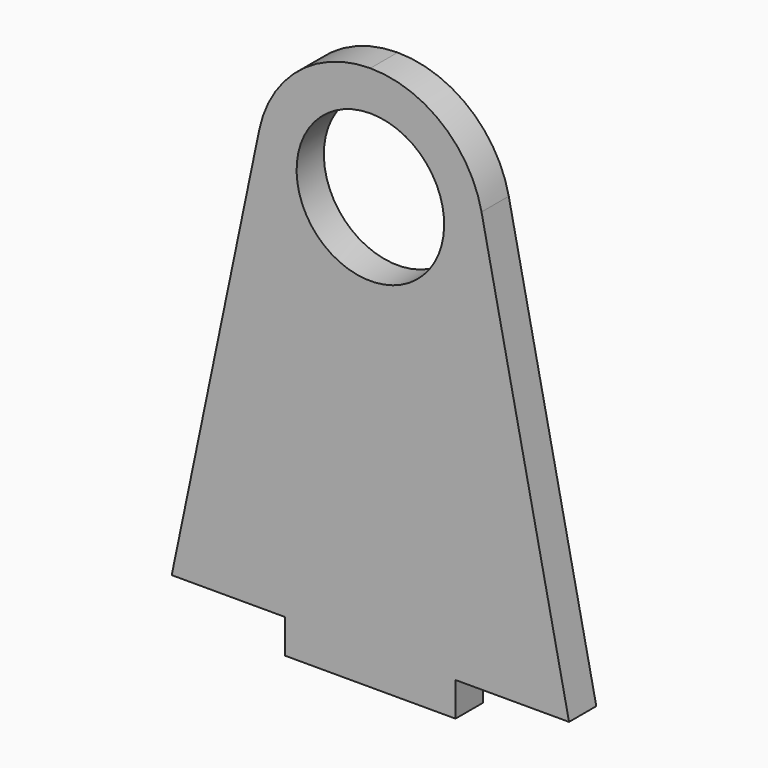
from build123d import *

# Parameters (mm, degrees)
F1_DEPTH = 3


with BuildPart() as f1:
    # F0 (on Front) → F1 (new body)
    with BuildSketch(Plane.XZ):
        with BuildLine():
            ThreePointArc((0, 45), (-6.309545, 42.758198), (-9.790141, 37.037927))
            Line((-9.790141, 37.037927), (-17.5, 0))
            Line((-17.5, 0), (-7.5, 0))
            Line((-7.5, 0), (-7.5, -3))
            Line((-7.5, -3), (0, -3))
            Line((0, -3), (7.5, -3))
            Line((7.5, -3), (7.5, 0))
            Line((7.5, 0), (17.5, 0))
            Line((17.5, 0), (9.790141, 37.037927))
            ThreePointArc((9.790141, 37.037927), (6.309545, 42.758198), (0, 45))
        make_face()
        with BuildLine():
            ThreePointArc((0, 28.5), (-6.5, 35), (0, 41.5))
            ThreePointArc((0, 41.5), (6.5, 35), (0, 28.5))
        make_face(mode=Mode.SUBTRACT)
    extrude(amount=F1_DEPTH)


solid = f1.part
